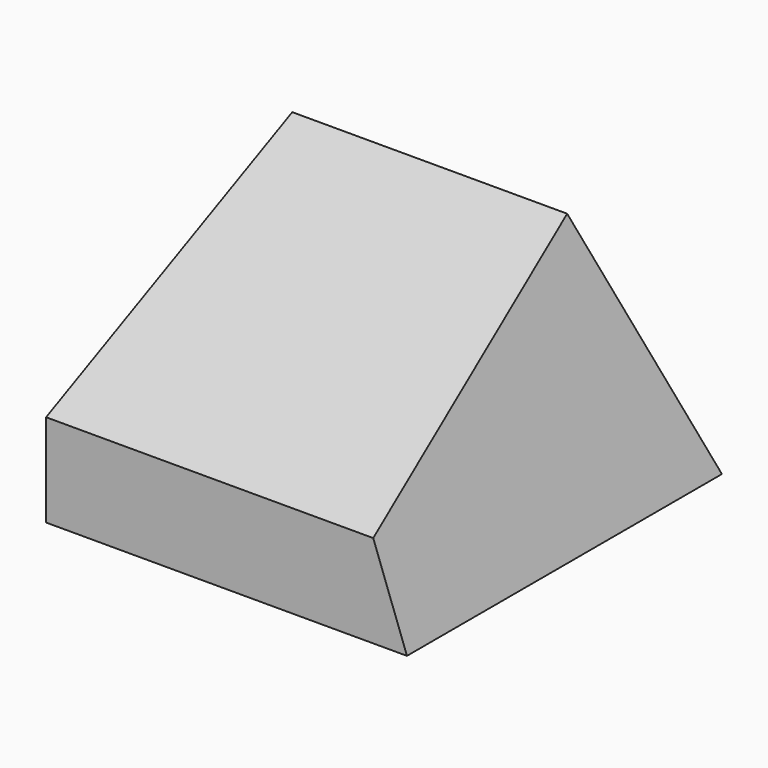
from build123d import *

# Parameters (mm, degrees)
F0_W     = 110
F0_H     = 120
F1_DEPTH = 72
F3_DEPTH = 120
F5_DEPTH = 133
F7_DEPTH = 133


with BuildPart() as f1:
    # F0 (on Top) → F1 (new body)
    with BuildSketch(Plane.XY):
        with Locations((-55, 60)):
            Rectangle(F0_W, F0_H)
    extrude(amount=F1_DEPTH)

    # F2 (on face) → F3 (cut)
    with BuildSketch(Plane.XZ):
        Polygon((-26.205857, 72), (0, 0), (0, 72), align=None)
    extrude(amount=-F3_DEPTH, mode=Mode.SUBTRACT)

    # F4 (on Right) → F5 (cut)
    with BuildSketch(Plane.YZ):
        Polygon((120, 0), (120, 72), (93.794143, 72), align=None)
    extrude(amount=-F5_DEPTH, mode=Mode.SUBTRACT)

    # F6 (on Right) → F7 (cut)
    with BuildSketch(Plane.YZ):
        Polygon((0, 28.263073), (93.794143, 72), (0, 72), align=None)
    extrude(amount=-F7_DEPTH, mode=Mode.SUBTRACT)


solid = f1.part
